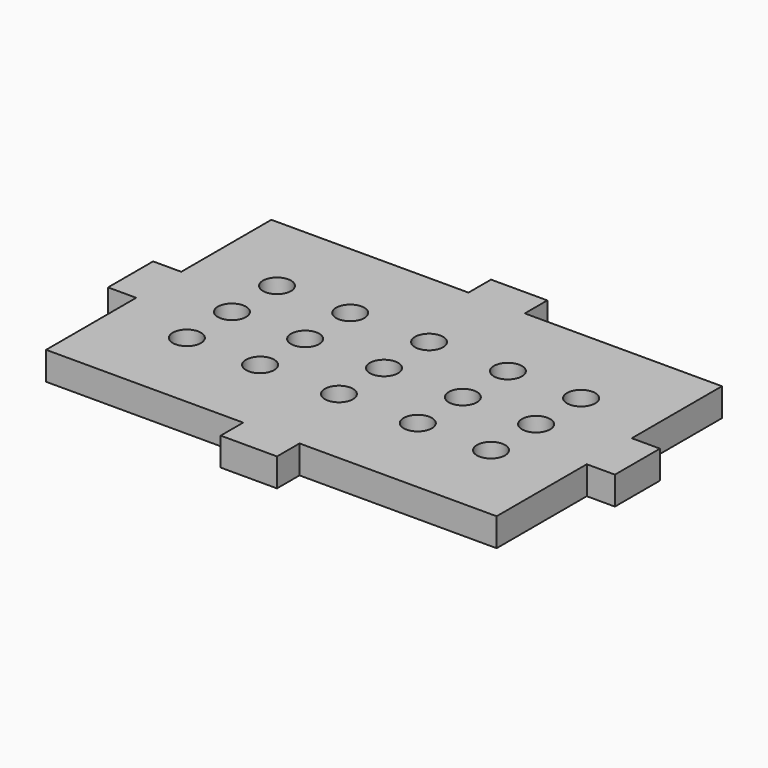
from build123d import *

# Parameters (mm, degrees)
F0_W     = 10
F0_H     = 5
F0_W_2   = 5
F0_H_2   = 10
F1_DEPTH = 5
F2_R     = 2.5
F3_DEPTH = 5


with BuildPart() as f1:
    # F0 (on Top) → F1 (new body)
    with BuildSketch(Plane.XY):
        Polygon((-5, 25), (-40, 25), (-40, 5), (-40, -5), (-40, -25), (-5, -25), (5, -25), (40, -25), (40, -5), (40, 5), (40, 25), (5, 25), align=None)
        with Locations((0, 27.5)):
            Rectangle(F0_W, F0_H)
        with Locations((-42.5, 0)):
            Rectangle(F0_W_2, F0_H_2)
        with Locations((0, -27.5)):
            Rectangle(F0_W, F0_H)
        with Locations((42.5, 0)):
            Rectangle(F0_W_2, F0_H_2)
    extrude(amount=F1_DEPTH)

    # F2 (on face) → F3 (cut)
    with BuildSketch(Plane.XY.offset(5)):
        with Locations((-27, 10)):
            Circle(F2_R)
        with Locations((-14, 10)):
            Circle(F2_R)
        with Locations((0, 10)):
            Circle(F2_R)
        with Locations((14, 10)):
            Circle(F2_R)
        with Locations((27, 10)):
            Circle(F2_R)
        with Locations((-27, 0)):
            Circle(F2_R)
        with Locations((-14, 0)):
            Circle(F2_R)
        Circle(F2_R)
        with Locations((14, 0)):
            Circle(F2_R)
        with Locations((27, 0)):
            Circle(F2_R)
        with Locations((27, -10)):
            Circle(F2_R)
        with Locations((14, -10)):
            Circle(F2_R)
        with Locations((0, -10)):
            Circle(F2_R)
        with Locations((-14, -10)):
            Circle(F2_R)
        with Locations((-27, -10)):
            Circle(F2_R)
    extrude(amount=-F3_DEPTH, mode=Mode.SUBTRACT)


solid = f1.part
